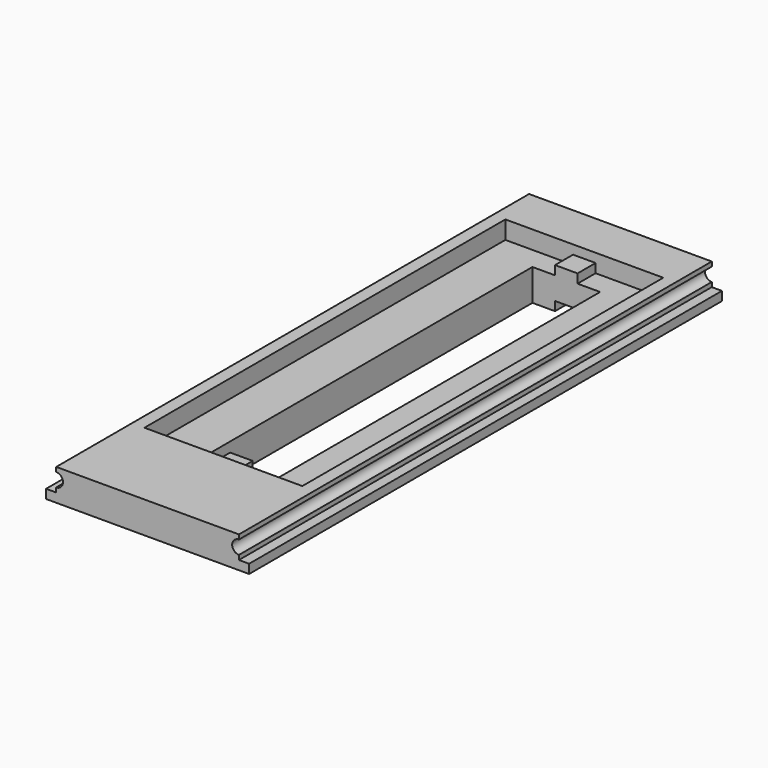
from build123d import *

# Parameters (mm, degrees)
F0_W      = 45
F0_H      = 131
F1_DEPTH  = 2
F2_W      = 40.5
F2_H      = 131
F3_DEPTH  = 5
F5_W      = 35
F5_H      = 100
F6_DEPTH  = 4
F7_W      = 5
F7_H      = 100
F8_DEPTH  = 2
F4_W      = 15
F4_H      = 90
F9_DEPTH  = 7.001
F10_W     = 5
F10_H     = 5
F13_DEPTH = 2
F12_W     = 5
F12_H     = 5
F14_DEPTH = 4
F11_W     = 10
F11_H     = 100
F15_DEPTH = 4
F16_R     = 1.5
F17_DEPTH = 131.001


with BuildPart() as f1:
    # F0 (on Top) → F1 (new body)
    with BuildSketch(Plane.XY):
        with Locations((22.5, 65.5)):
            Rectangle(F0_W, F0_H)
    extrude(amount=F1_DEPTH)

    # F2 (on face) → F3 (join)
    with BuildSketch(Plane.XY.offset(2)):
        with Locations((22.5, 65.5)):
            Rectangle(F2_W, F2_H)
    extrude(amount=F3_DEPTH)

    # F5 (on face) → F6 (cut)
    with BuildSketch(Plane.XY.offset(7)):
        with Locations((22.5, 71)):
            Rectangle(F5_W, F5_H)
    extrude(amount=-F6_DEPTH, mode=Mode.SUBTRACT)

    # F7 (on face) → F8 (join)
    with BuildSketch(Plane.XY.offset(3)):
        with Locations((22.5, 71)):
            Rectangle(F7_W, F7_H)
    extrude(amount=F8_DEPTH)

    # F4 (on face) → F9 (cut, through all)
    with BuildSketch(Plane.XY.offset(7)):
        with Locations((22.5, 71)):
            Rectangle(F4_W, F4_H)
    extrude(amount=-F9_DEPTH, mode=Mode.SUBTRACT)

    # F10 (on face) → F13 (join)
    with BuildSketch(Plane(origin=(0, 0, 0), x_dir=(1, 0, 0), z_dir=(0, 0, -1))):
        with Locations((22.5, -118.5)):
            Rectangle(F10_W, F10_H)
        with Locations((22.5, -23.5)):
            Rectangle(F10_W, F10_H)
    extrude(amount=F13_DEPTH)

    # F12 (on face) → F14 (join)
    with BuildSketch(Plane(origin=(0, 0, 0), x_dir=(1, 0, 0), z_dir=(0, 0, -1))):
        with Locations((17.5, -23.5)):
            Rectangle(F12_W, F12_H)
        with Locations((27.5, -23.5)):
            Rectangle(F12_W, F12_H)
        with Locations((27.5, -118.5)):
            Rectangle(F12_W, F12_H)
        with Locations((17.5, -118.5)):
            Rectangle(F12_W, F12_H)
    extrude(amount=F14_DEPTH)

    # F11 (on face) → F15 (join)
    with BuildSketch(Plane(origin=(0, 0, 0), x_dir=(1, 0, 0), z_dir=(0, 0, -1))):
        with Locations((10, -71)):
            Rectangle(F11_W, F11_H)
        with Locations((35, -71)):
            Rectangle(F11_W, F11_H)
    extrude(amount=F15_DEPTH)

    # F16 (on face) → F17 (cut, through all)
    with BuildSketch(Plane.XZ):
        with Locations((2.25, 4.5)):
            Circle(F16_R)
        with Locations((42.75, 4.5)):
            Circle(F16_R)
    extrude(amount=-F17_DEPTH, mode=Mode.SUBTRACT)


solid = f1.part
